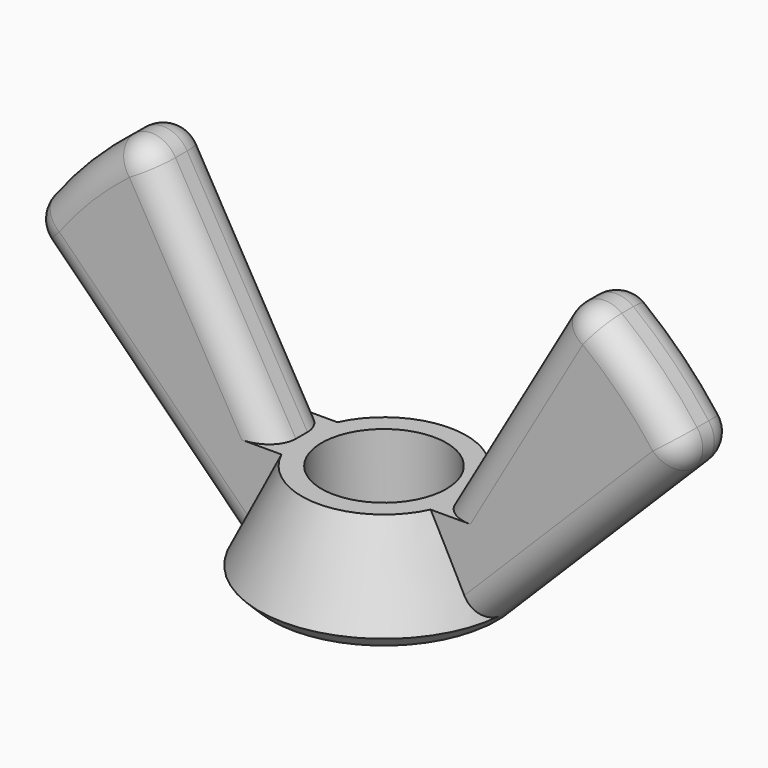
from build123d import *

# Parameters (mm, degrees)
F3_DEPTH = 1.778
F4_R     = 1.4103835631


with BuildPart() as f1:
    # F0 (on Front) → F1 (revolve)
    with BuildSketch(Plane.XZ):
        Polygon((3.175, 5.08), (3.175, 0), (5.715, 0), (6.35, 0.635), (4.191, 5.08), align=None)
    revolve(axis=Axis((0, 0, -0.1242621523), (0, 0, -1)))

    # F2 (on Front) → F3 (join, symmetric)
    with BuildSketch(Plane.XZ):
        with BuildLine():
            Line((-16.9389024071, 11.2239024071), (-6.35, 0.635))
            Line((-6.35, 0.635), (-4.191, 5.08))
            Line((-4.191, 5.08), (-11.088930664, 17.0275663772))
            ThreePointArc((-11.088930664, 17.0275663772), (-14.3112014008, 14.4253913106), (-16.9389024071, 11.2239024071))
        make_face()
        with BuildLine():
            ThreePointArc((16.9389024071, 11.2239024071), (14.3112014008, 14.4253913106), (11.088930664, 17.0275663772))
            Line((11.088930664, 17.0275663772), (4.191, 5.08))
            Line((4.191, 5.08), (6.35, 0.635))
            Line((6.35, 0.635), (16.9389024071, 11.2239024071))
        make_face()
        Polygon((-4.191, 5.08), (-6.35, 0.635), (-5.715, 0), (-3.175, 0), (-3.175, 5.08), align=None)
        Polygon((4.191, 5.08), (3.175, 5.08), (3.175, 0), (5.715, 0), (6.35, 0.635), align=None)
    extrude(amount=F3_DEPTH, both=True)

    # F4 (call 1 of 2: OpenCascade refuses the feature's edges together)
    f4_edges = [f1.edges().sort_by_distance(p)[0] for p in [
        (-7.639965, -1.778, 11.053783),
        (-11.326951, -1.778, 5.611951),
        (-11.326951, 1.778, 5.611951),
        (-7.639965, 1.778, 11.053783),
        (-14.311201, 1.778, 14.425391),
        (-16.938902, 0, 11.223902),
        (-14.311201, -1.778, 14.425391),
        (-11.088931, 0, 17.027566),
    ]]
    fillet(f4_edges, radius=F4_R)

    # F4#2 (call 2 of 2)
    f4_2_edges = [f1.edges().sort_by_distance(p)[0] for p in [
        (11.326951, 1.778, 5.611951),
        (11.326951, -1.778, 5.611951),
        (14.311201, 1.778, 14.425391),
        (11.088931, 0, 17.027566),
        (14.311201, -1.778, 14.425391),
        (16.938902, 0, 11.223902),
        (7.639965, 1.778, 11.053783),
        (7.639965, -1.778, 11.053783),
    ]]
    fillet(f4_2_edges, radius=F4_R)


solid = f1.part
